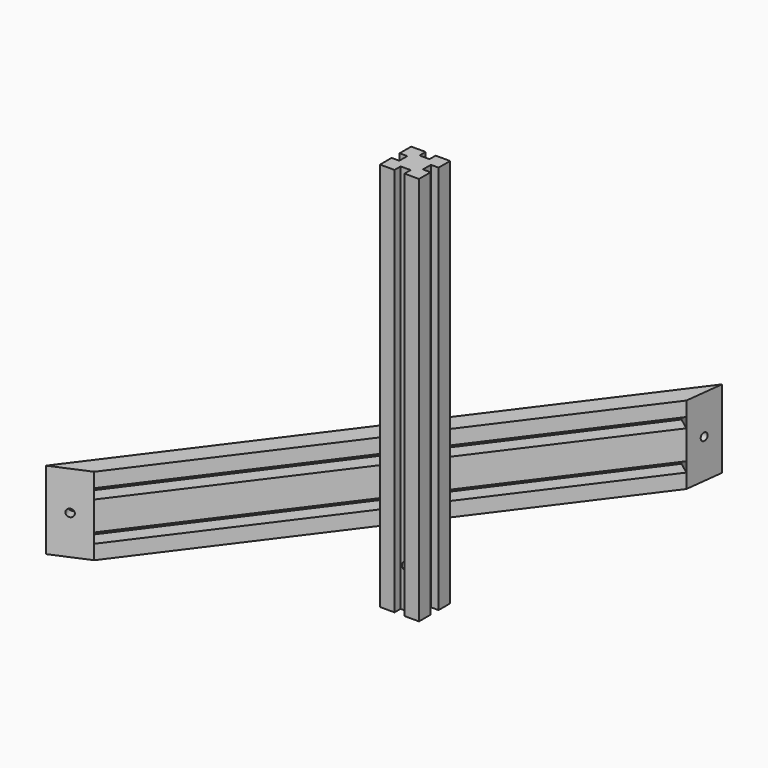
from build123d import *

# Parameters (mm, degrees)
F1_DEPTH  = 50.8
F2_W      = 311.6059094878
F2_H      = 6.5024
F3_DEPTH  = 10
F4_W      = 25.4
F4_H      = 25.4
F5_DEPTH  = 254
F7_W      = 6.5024
F7_H      = 254
F10_DEPTH = 5
F11_DEPTH = 5
F8_W      = 6.5024
F8_H      = 254
F12_DEPTH = 5
F6_W      = 6.5024
F6_H      = 254
F13_DEPTH = 5
F14_R     = 2.5
F15_DEPTH = 100
F16_R     = 2.5
F17_DEPTH = 25
F18_R     = 2.5
F19_DEPTH = 25


with BuildPart() as f1:
    # F0 (on Top) → F1 (new body)
    with BuildSketch(Plane.XY):
        Polygon((65.9228841441, 139.1180368572), (68.9049714361, 164.342373427), (-143.8212714684, -120.6118432109), (-120.4853115595, -110.5822382772), align=None)
    extrude(amount=F1_DEPTH)

    # F2 (on face) → F3 (cut)
    with BuildSketch(Plane(origin=(-24.357866694, 18.1838245039, 0), x_dir=(0.5982177809, 0.8013335676, 0), z_dir=(0.8013335676, -0.5982177809, 0))):
        with Locations((-4.8867604855, 38.1)):
            Rectangle(F2_W, F2_H)
        with Locations((-4.8867604855, 12.7)):
            Rectangle(F2_W, F2_H)
    extrude(amount=-F3_DEPTH, mode=Mode.SUBTRACT)

    # F14 (on face) → F15 (cut)
    with BuildSketch(Plane(origin=(48.7940107522, -5.7685560525, 0), x_dir=(0.1174050115, 0.9930841169, 0), z_dir=(0.9930841169, -0.1174050115, 0))):
        with Locations((158.5955897506, 25.4)):
            Circle(F14_R)
    extrude(amount=-F15_DEPTH, mode=Mode.SUBTRACT)

    # F16 (on face) → F17 (cut)
    with BuildSketch(Plane(origin=(21.3309064992, -49.6307862751, 0), x_dir=(0.9187385791, 0.394866336, 0), z_dir=(0.394866336, -0.9187385791, 0))):
        with Locations((-167.059707196, 25.4)):
            Circle(F16_R)
    extrude(amount=-F17_DEPTH, mode=Mode.SUBTRACT)


with BuildPart() as f5:
    # F4 (on Top) → F5 (new body)
    with BuildSketch(Plane.XY):
        with Locations((38.1011031568, -47.2492938419)):
            Rectangle(F4_W, F4_H)
    extrude(amount=F5_DEPTH)

    # F7 (on face) → F10 (cut)
    with BuildSketch(Plane.YZ.offset(50.8011031568)):
        with Locations((-47.2492938419, 127)):
            Rectangle(F7_W, F7_H)
    extrude(amount=-F10_DEPTH, mode=Mode.SUBTRACT)

    # F9 (on face) → F11 (cut)
    with BuildSketch(Plane(origin=(0, -34.5492938419, 0), x_dir=(-1, 0, 0), z_dir=(0, 1, 0))):
        Polygon((-38.7320419943, 0), (-34.8499031568, 0), (-34.8499031568, 254), (-41.3523031568, 254), (-41.3523031568, 0), align=None)
        Polygon((-38.7320419943, 0), (-34.8499031568, 0), (-34.8499031568, 254), (-41.3523031568, 254), (-41.3523031568, 0), align=None)
    extrude(amount=-F11_DEPTH, mode=Mode.SUBTRACT)

    # F8 (on face) → F12 (cut)
    with BuildSketch(Plane(origin=(25.4011031568, 0, 0), x_dir=(0, -1, 0), z_dir=(-1, 0, 0))):
        with Locations((47.2492938419, 127)):
            Rectangle(F8_W, F8_H)
    extrude(amount=-F12_DEPTH, mode=Mode.SUBTRACT)

    # F6 (on face) → F13 (cut)
    with BuildSketch(Plane.XZ.offset(59.9492938419)):
        with Locations((38.1011031568, 127)):
            Rectangle(F6_W, F6_H)
    extrude(amount=-F13_DEPTH, mode=Mode.SUBTRACT)

    # F18 (on face) → F19 (cut)
    with BuildSketch(Plane.XZ.offset(54.9492938419)):
        with Locations((38.1011031568, 25.4)):
            Circle(F18_R)
    extrude(amount=-F19_DEPTH, mode=Mode.SUBTRACT)


solid = Compound([f1.part, f5.part])
